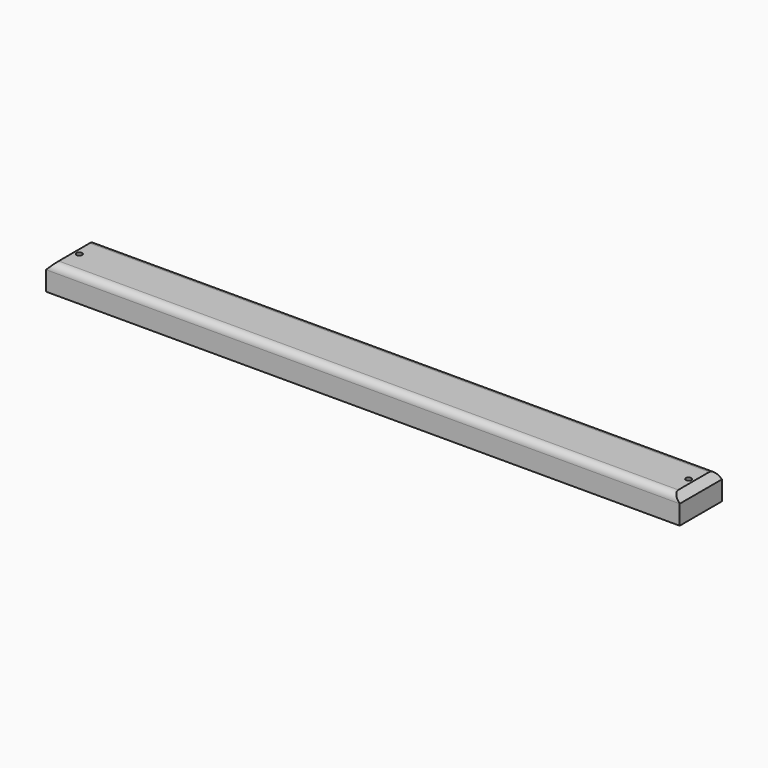
from build123d import *

# Parameters (mm, degrees)
F0_W     = 457.2
F0_H     = 38.1
F0_R     = 1.984375
F1_DEPTH = 19.05
F2_SIZE  = 5.08
F3_R     = 5.08


with BuildPart() as f1:
    # F0 (on Top) → F1 (new body)
    with BuildSketch(Plane.XY):
        with Locations((228.6, 19.05)):
            Rectangle(F0_W, F0_H)
        with Locations((8.73125, 19.05)):
            Circle(F0_R, mode=Mode.SUBTRACT)
        with Locations((448.46875, 19.05)):
            Circle(F0_R, mode=Mode.SUBTRACT)
    extrude(amount=F1_DEPTH)

    # F2
    f2_edges = [f1.edges().sort_by_distance(p)[0] for p in [
        (0, 19.05, 19.05),
        (457.2, 19.05, 19.05),
    ]]
    chamfer(f2_edges, length=F2_SIZE)

    # F3
    f3_edges = [f1.edges().sort_by_distance(p)[0] for p in [
        (228.6, 38.1, 19.05),
        (228.6, 0, 19.05),
    ]]
    fillet(f3_edges, radius=F3_R)


solid = f1.part
